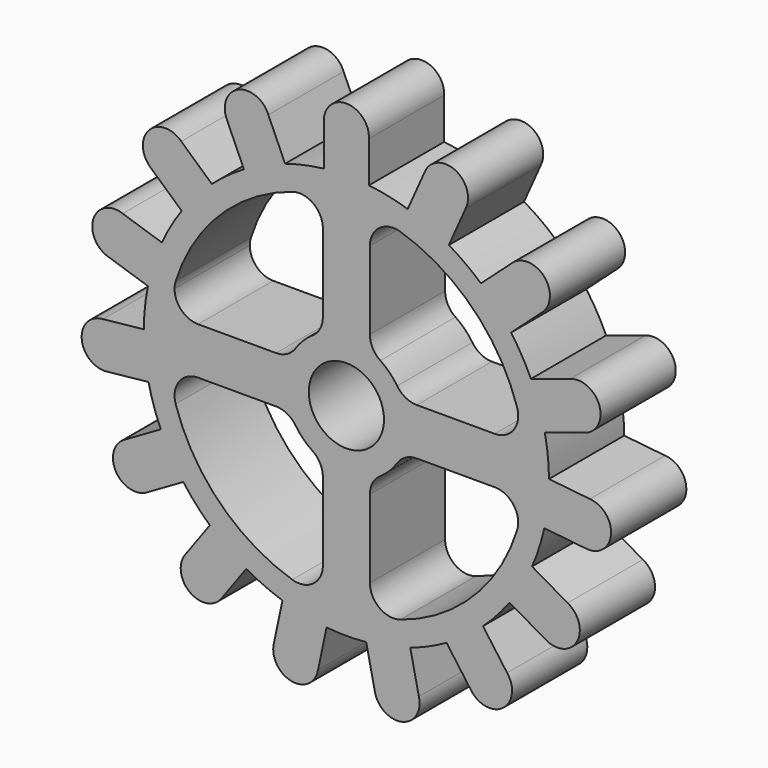
from build123d import *

# Parameters (mm, degrees)
F0_R     = 4
F1_DEPTH = 5
F3_DEPTH = 10


with BuildPart() as f1:
    # F0 (on Front) → F1 (new body, symmetric)
    with BuildSketch(Plane.XZ):
        with BuildLine():
            Line((-12.679406, 22.584124), (-10.90092, 18.589579))
            ThreePointArc((-10.90092, 18.589579), (-12.666772, 17.434316), (-14.311171, 16.111887))
            Line((-14.311171, 16.111887), (-17.560627, 19.03771))
            ThreePointArc((-17.560627, 19.03771), (-21.030999, 18.936396), (-20.769004, 15.474445))
            Line((-20.769004, 15.474445), (-17.519549, 12.548622))
            ThreePointArc((-17.519549, 12.548622), (-18.662847, 10.775), (-19.6272, 8.898063))
            Line((-19.6272, 8.898063), (-23.785765, 10.249263))
            ThreePointArc((-23.785765, 10.249263), (-26.914899, 8.745181), (-25.267454, 5.689094))
            Line((-25.267454, 5.689094), (-21.108888, 4.337894))
            ThreePointArc((-21.108888, 4.337894), (-21.431947, 2.252588), (-21.549508, 0.145684))
            Line((-21.549508, 0.145684), (-25.898128, -0.311375))
            ThreePointArc((-25.898128, -0.311375), (-28.14497, -2.958156), (-25.39693, -5.079953))
            Line((-25.39693, -5.079953), (-21.04831, -4.622895))
            ThreePointArc((-21.04831, -4.622895), (-20.495268, -6.659316), (-19.74571, -8.631886))
            Line((-19.74571, -8.631886), (-23.53247, -10.818173))
            ThreePointArc((-23.53247, -10.818173), (-24.508519, -14.15), (-21.135047, -14.97063))
            Line((-21.135047, -14.97063), (-17.348287, -12.784343))
            ThreePointArc((-17.348287, -12.784343), (-16.014771, -14.419765), (-14.527699, -15.916924))
            Line((-14.527699, -15.916924), (-17.097834, -19.45441))
            ThreePointArc((-17.097834, -19.45441), (-16.634323, -22.895181), (-13.218722, -22.27275))
            Line((-13.218722, -22.27275), (-10.648588, -18.735263))
            ThreePointArc((-10.648588, -18.735263), (-8.765175, -19.686905), (-6.797718, -20.449781))
            Line((-6.797718, -20.449781), (-7.706827, -24.726804))
            ThreePointArc((-7.706827, -24.726804), (-5.883901, -27.681577), (-3.01676, -25.723708))
            Line((-3.01676, -25.723708), (-2.107651, -21.446685))
            ThreePointArc((-2.107651, -21.446685), (0, -21.55), (2.107651, -21.446685))
            Line((2.107651, -21.446685), (3.01676, -25.723708))
            ThreePointArc((3.01676, -25.723708), (5.883901, -27.681577), (7.706827, -24.726804))
            Line((7.706827, -24.726804), (6.797718, -20.449781))
            ThreePointArc((6.797718, -20.449781), (8.765175, -19.686905), (10.648588, -18.735263))
            Line((10.648588, -18.735263), (13.218722, -22.27275))
            ThreePointArc((13.218722, -22.27275), (16.634323, -22.895181), (17.097834, -19.45441))
            Line((17.097834, -19.45441), (14.527699, -15.916924))
            ThreePointArc((14.527699, -15.916924), (16.014771, -14.419765), (17.348287, -12.784343))
            Line((17.348287, -12.784343), (21.135047, -14.97063))
            ThreePointArc((21.135047, -14.97063), (24.508519, -14.15), (23.53247, -10.818173))
            Line((23.53247, -10.818173), (19.74571, -8.631886))
            ThreePointArc((19.74571, -8.631886), (20.495268, -6.659316), (21.04831, -4.622895))
            Line((21.04831, -4.622895), (25.39693, -5.079953))
            ThreePointArc((25.39693, -5.079953), (28.14497, -2.958156), (25.898128, -0.311375))
            Line((25.898128, -0.311375), (21.549508, 0.145684))
            ThreePointArc((21.549508, 0.145684), (21.431947, 2.252588), (21.108888, 4.337894))
            Line((21.108888, 4.337894), (25.267454, 5.689094))
            ThreePointArc((25.267454, 5.689094), (26.914899, 8.745181), (23.785765, 10.249263))
            Line((23.785765, 10.249263), (19.6272, 8.898063))
            ThreePointArc((19.6272, 8.898063), (18.662847, 10.775), (17.519549, 12.548622))
            Line((17.519549, 12.548622), (20.769004, 15.474445))
            ThreePointArc((20.769004, 15.474445), (21.030999, 18.936396), (17.560627, 19.03771))
            Line((17.560627, 19.03771), (14.311171, 16.111887))
            ThreePointArc((14.311171, 16.111887), (12.666772, 17.434316), (10.90092, 18.589579))
            Line((10.90092, 18.589579), (12.679406, 22.584124))
            ThreePointArc((12.679406, 22.584124), (11.510647, 25.853336), (8.299097, 24.534364))
            Line((8.299097, 24.534364), (6.520611, 20.539818))
            ThreePointArc((6.520611, 20.539818), (4.480497, 21.079081), (2.397423, 21.416229))
            Line((2.397423, 21.416229), (2.397423, 25.788803))
            ThreePointArc((2.397423, 25.788803), (0, 28.3), (-2.397423, 25.788803))
            Line((-2.397423, 25.788803), (-2.397423, 21.416229))
            ThreePointArc((-2.397423, 21.416229), (-4.480497, 21.079081), (-6.520611, 20.539818))
            Line((-6.520611, 20.539818), (-8.299097, 24.534364))
            ThreePointArc((-8.299097, 24.534364), (-11.510647, 25.853336), (-12.679406, 22.584124))
        make_face()
        Circle(F0_R, mode=Mode.SUBTRACT)
    extrude(amount=F1_DEPTH, both=True)

    # F2 (on face) → F3 (cut)
    with BuildSketch(Plane.XZ.offset(5)):
        with BuildLine():
            ThreePointArc((-5.755287, 18.159823), (-13.470384, 13.470384), (-18.159823, 5.755287))
            ThreePointArc((-18.159823, 5.755287), (-18.247266, 5.382134), (-18.276644, 5))
            Line((-18.276644, 5), (-4.153312, 5))
            ThreePointArc((-4.153312, 5), (-3.887479, 5.209367), (-3.611111, 5.404616))
            ThreePointArc((-3.611111, 5.404616), (-2.795207, 6.304803), (-2.5, 7.483315))
            Line((-2.5, 7.483315), (-2.5, 15.776644))
            ThreePointArc((-2.5, 15.776644), (-3.523216, 17.793847), (-5.755287, 18.159823))
        make_face()
        with BuildLine():
            Line((-4.153312, 5), (-18.276644, 5))
            ThreePointArc((-18.276644, 5), (-17.544411, 3.232233), (-15.776644, 2.5))
            Line((-15.776644, 2.5), (-7.483315, 2.5))
            ThreePointArc((-7.483315, 2.5), (-6.304803, 2.795207), (-5.404616, 3.611111))
            ThreePointArc((-5.404616, 3.611111), (-4.829156, 4.350776), (-4.153312, 5))
        make_face()
        with BuildLine():
            ThreePointArc((5.755287, 18.159823), (3.523216, 17.793847), (2.5, 15.776644))
            Line((2.5, 15.776644), (2.5, 7.483315))
            ThreePointArc((2.5, 7.483315), (2.795207, 6.304803), (3.611111, 5.404616))
            ThreePointArc((3.611111, 5.404616), (4.596194, 4.596194), (5.404616, 3.611111))
            ThreePointArc((5.404616, 3.611111), (6.304803, 2.795207), (7.483315, 2.5))
            Line((7.483315, 2.5), (15.776644, 2.5))
            ThreePointArc((15.776644, 2.5), (17.793847, 3.523216), (18.159823, 5.755287))
            ThreePointArc((18.159823, 5.755287), (13.470384, 13.470384), (5.755287, 18.159823))
        make_face()
        with BuildLine():
            Line((-7.483315, -2.5), (-15.776644, -2.5))
            ThreePointArc((-15.776644, -2.5), (-17.793847, -3.523216), (-18.159823, -5.755287))
            ThreePointArc((-18.159823, -5.755287), (-13.470384, -13.470384), (-5.755287, -18.159823))
            ThreePointArc((-5.755287, -18.159823), (-3.523216, -17.793847), (-2.5, -15.776644))
            Line((-2.5, -15.776644), (-2.5, -7.483315))
            ThreePointArc((-2.5, -7.483315), (-2.795207, -6.304803), (-3.611111, -5.404616))
            ThreePointArc((-3.611111, -5.404616), (-4.596194, -4.596194), (-5.404616, -3.611111))
            ThreePointArc((-5.404616, -3.611111), (-6.304803, -2.795207), (-7.483315, -2.5))
        make_face()
        with BuildLine():
            ThreePointArc((5.404616, -3.611111), (4.596194, -4.596194), (3.611111, -5.404616))
            ThreePointArc((3.611111, -5.404616), (2.795207, -6.304803), (2.5, -7.483315))
            Line((2.5, -7.483315), (2.5, -15.776644))
            ThreePointArc((2.5, -15.776644), (3.523216, -17.793847), (5.755287, -18.159823))
            ThreePointArc((5.755287, -18.159823), (13.470384, -13.470384), (18.159823, -5.755287))
            ThreePointArc((18.159823, -5.755287), (17.793847, -3.523216), (15.776644, -2.5))
            Line((15.776644, -2.5), (7.483315, -2.5))
            ThreePointArc((7.483315, -2.5), (6.304803, -2.795207), (5.404616, -3.611111))
        make_face()
    extrude(amount=-F3_DEPTH, mode=Mode.SUBTRACT)


solid = f1.part
